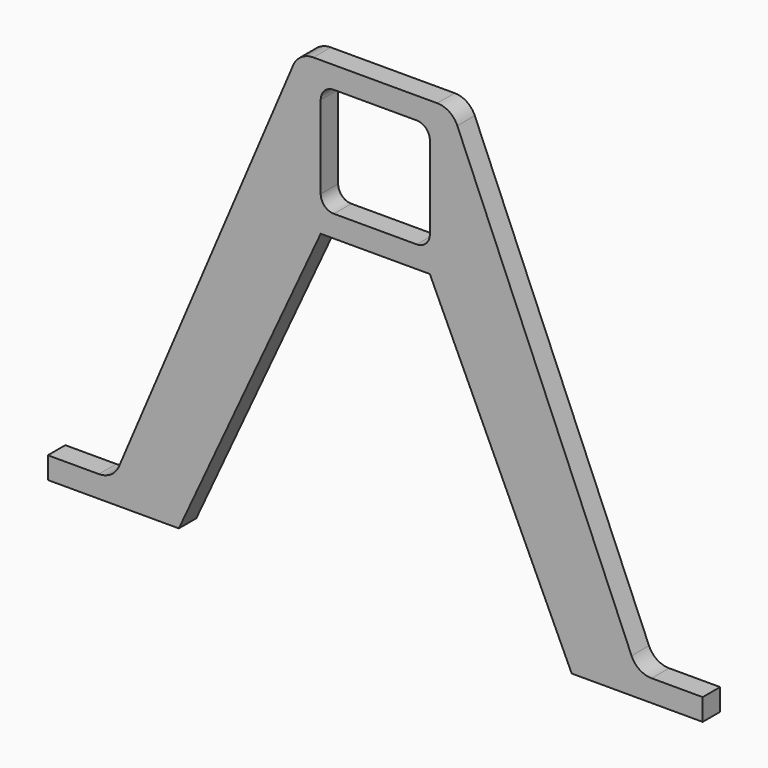
from build123d import *

# Parameters (mm, degrees)
F1_DEPTH = 5


with BuildPart() as f1:
    # F0 (on Front) → F1 (new body, symmetric)
    with BuildSketch(Plane.XZ):
        with BuildLine():
            Line((-150, -165), (-150, -175))
            Line((-150, -175), (-90, -175))
            Line((-90, -175), (-25, -35))
            Line((-25, -35), (25, -35))
            Line((25, -35), (90, -175))
            Line((90, -175), (150, -175))
            Line((150, -175), (150, -165))
            Line((150, -165), (126.615657, -165))
            ThreePointArc((126.615657, -165), (121.098142, -163.340086), (117.412348, -158.911406))
            Line((117.412348, -158.911406), (37.587652, 28.911406))
            ThreePointArc((37.587652, 28.911406), (33.901858, 33.340086), (28.384343, 35))
            Line((28.384343, 35), (-28.384343, 35))
            ThreePointArc((-28.384343, 35), (-33.901858, 33.340086), (-37.587652, 28.911406))
            Line((-37.587652, 28.911406), (-117.412348, -158.911406))
            ThreePointArc((-117.412348, -158.911406), (-121.098142, -163.340086), (-126.615657, -165))
            Line((-126.615657, -165), (-150, -165))
        make_face()
        with BuildLine():
            ThreePointArc((-25, 19), (-23.242641, 23.242641), (-19, 25))
            Line((-19, 25), (19, 25))
            ThreePointArc((19, 25), (23.242641, 23.242641), (25, 19))
            Line((25, 19), (25, -19))
            ThreePointArc((25, -19), (23.242641, -23.242641), (19, -25))
            Line((19, -25), (-19, -25))
            ThreePointArc((-19, -25), (-23.242641, -23.242641), (-25, -19))
            Line((-25, -19), (-25, 19))
        make_face(mode=Mode.SUBTRACT)
    extrude(amount=F1_DEPTH, both=True)


solid = f1.part
